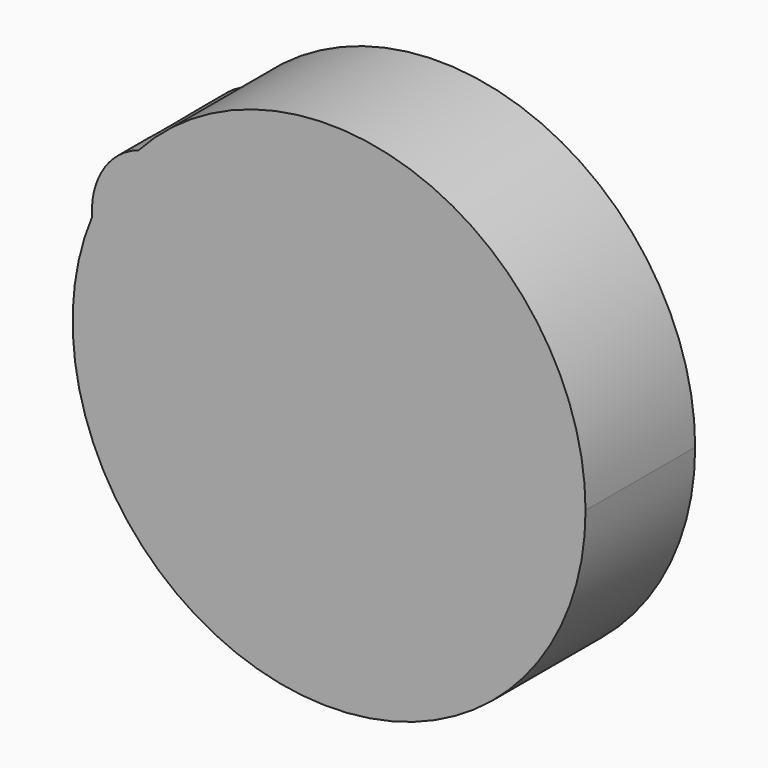
from build123d import *

# Parameters (mm, degrees)
F1_DEPTH = 25.4


with BuildPart() as f1:
    # F0 (on Front) → F1 (new body)
    with BuildSketch(Plane.XZ):
        with BuildLine():
            ThreePointArc((-34.509847, 41.753428), (-30.781063, 48.96456), (-25.879501, 55.435952))
            add(Edge.make_bspline(
                [(-25.879501, 55.435952), (-35.185636, 52.403877), (-34.509847, 41.753428)],
                knots=[0.287962, 0.287962, 0.287962, 1.64048, 1.64048, 1.64048], degree=2, weights=[1, 0.77992, 1]))
        make_face()
        with BuildLine():
            add(Edge.make_bspline(
                [(-10.350131, 42.679753), (-10.350131, 60.495648), (-25.879501, 55.435952)],
                knots=[4.712389, 4.712389, 4.712389, 6.571148, 6.571148, 6.571148], degree=2, weights=[1, 0.598331, 1]))
            ThreePointArc((-25.879501, 55.435952), (-30.781063, 48.96456), (-34.509847, 41.753428))
            add(Edge.make_bspline(
                [(-34.509847, 41.753428), (-33.696575, 28.93626), (-22.023353, 29.383831), (-10.350131, 29.831402), (-10.350131, 42.679753)],
                knots=[1.64048, 1.64048, 1.64048, 3.176435, 3.176435, 4.712389, 4.712389, 4.712389], degree=2, weights=[1, 0.719317, 1, 0.719317, 1]))
        make_face()
        with BuildLine():
            ThreePointArc((-34.509847, 41.753428), (0.170019, -23.01348), (56.949596, 23.6076))
            ThreePointArc((56.949596, 23.6076), (26.468461, 67.974545), (-25.879501, 55.435952))
            add(Edge.make_bspline(
                [(-10.350131, 42.679753), (-10.350131, 60.495648), (-25.879501, 55.435952)],
                knots=[4.712389, 4.712389, 4.712389, 6.571148, 6.571148, 6.571148], degree=2, weights=[1, 0.598331, 1]))
            add(Edge.make_bspline(
                [(-34.509847, 41.753428), (-33.696575, 28.93626), (-22.023353, 29.383831), (-10.350131, 29.831402), (-10.350131, 42.679753)],
                knots=[1.64048, 1.64048, 1.64048, 3.176435, 3.176435, 4.712389, 4.712389, 4.712389], degree=2, weights=[1, 0.719317, 1, 0.719317, 1]))
        make_face()
        with BuildLine():
            add(Edge.make_bspline(
                [(17.327748, 11.978242), (17.327748, 46.22695), (-19.304738, 29.102596), (-55.937224, 11.978242), (-19.304738, -5.146112), (17.327748, -22.270467), (17.327748, 11.978242)],
                knots=[0, 0, 0, 2.094395, 2.094395, 4.18879, 4.18879, 6.283185, 6.283185, 6.283185], degree=2, weights=[1, 0.5, 1, 0.5, 1, 0.5, 1]))
        make_face(mode=Mode.SUBTRACT)
        with BuildLine():
            add(Edge.make_bspline(
                [(46.168562, 37.330247), (52.450335, 57.6832), (21.0501, 56.228742), (-10.350136, 54.774284), (14.768326, 35.87579), (39.886789, 16.977295), (46.168562, 37.330247)],
                knots=[0, 0, 0, 2.094395, 2.094395, 4.18879, 4.18879, 6.283185, 6.283185, 6.283185], degree=2, weights=[1, 0.5, 1, 0.5, 1, 0.5, 1]))
        make_face(mode=Mode.SUBTRACT)
        with BuildLine():
            add(Edge.make_bspline(
                [(46.168562, 37.330247), (52.450335, 57.6832), (21.0501, 56.228742), (-10.350136, 54.774284), (14.768326, 35.87579), (39.886789, 16.977295), (46.168562, 37.330247)],
                knots=[0, 0, 0, 2.094395, 2.094395, 4.18879, 4.18879, 6.283185, 6.283185, 6.283185], degree=2, weights=[1, 0.5, 1, 0.5, 1, 0.5, 1]))
        make_face()
        with BuildLine():
            add(Edge.make_bspline(
                [(17.327748, 11.978242), (17.327748, 46.22695), (-19.304738, 29.102596), (-55.937224, 11.978242), (-19.304738, -5.146112), (17.327748, -22.270467), (17.327748, 11.978242)],
                knots=[0, 0, 0, 2.094395, 2.094395, 4.18879, 4.18879, 6.283185, 6.283185, 6.283185], degree=2, weights=[1, 0.5, 1, 0.5, 1, 0.5, 1]))
        make_face()
    extrude(amount=F1_DEPTH)


solid = f1.part
